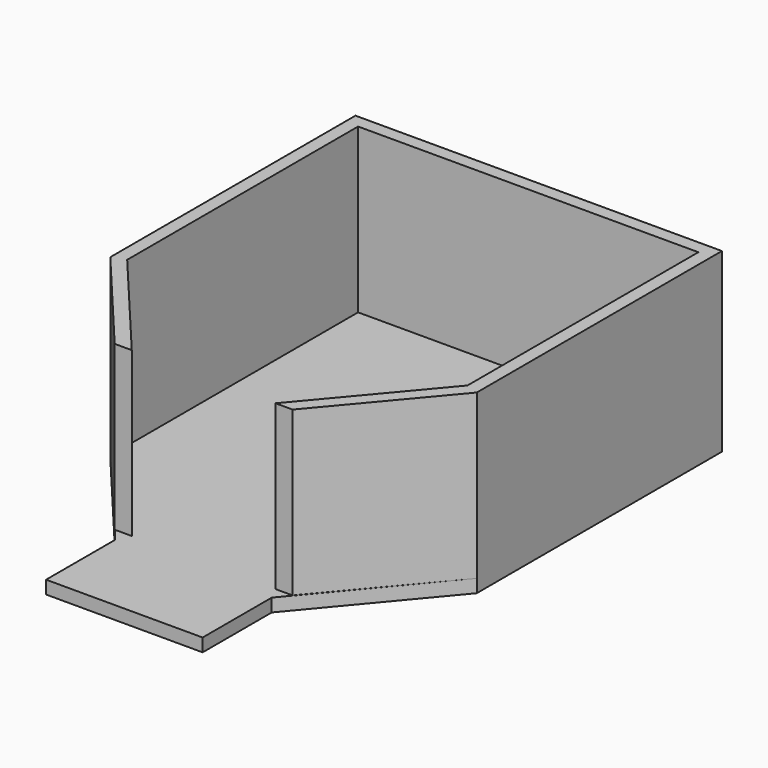
from build123d import *

# Parameters (mm, degrees)
F1_DEPTH = 25
F3_DEPTH = 2


with BuildPart() as f1:
    # F0 (on Top) → F1 (new body)
    with BuildSketch(Plane.XY):
        Polygon((-26, 31), (26, 31), (26, -13.102827), (10.982488, -31), (13.593303, -31), (28, -13.830767), (28, 33), (-28, 33), (-28, -13.830767), (-13.593303, -31), (-10.982488, -31), (-26, -13.102827), align=None)
    extrude(amount=F1_DEPTH)

    # F2 (on face) → F3 (join)
    with BuildSketch(Plane(origin=(0, 0, 0), x_dir=(1, 0, 0), z_dir=(0, 0, -1))):
        Polygon((-28, -33), (28, -33), (28, 13.830767), (12.006613, 33), (12.006613, 46.20152), (-11.915104, 46.20152), (-11.915104, 33), (-28, 13.830767), align=None)
    extrude(amount=F3_DEPTH)


solid = f1.part
